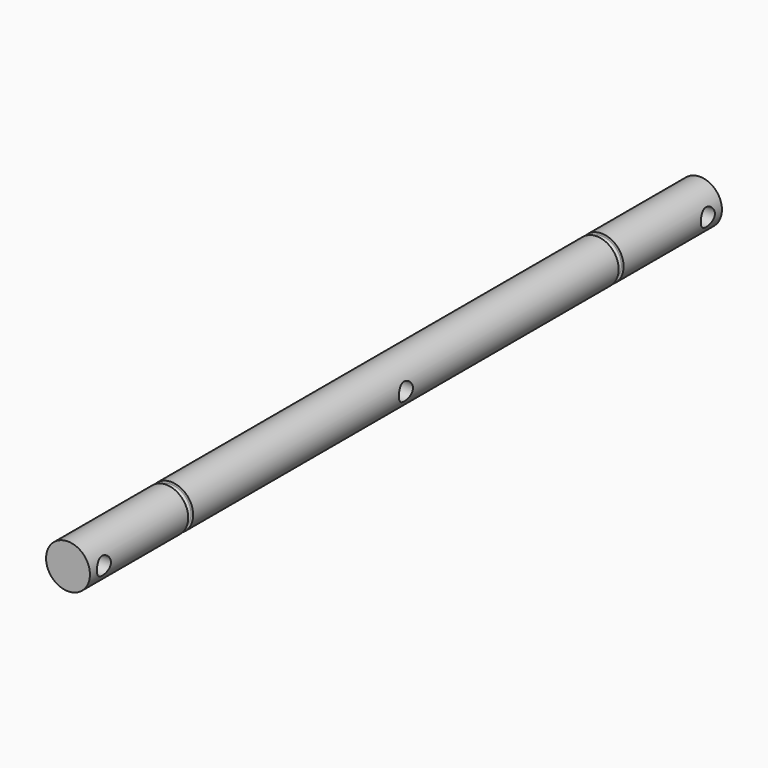
from build123d import *

# Parameters (mm, degrees)
F0_R     = 2.5
F1_DEPTH = 45
F2_W     = 0.7
F2_H     = 0.5
F5_R     = 1
F6_DEPTH = 12.5
F7_R     = 0.25


with BuildPart() as f1:
    # F0 (on Front) → F1 (new body, symmetric)
    with BuildSketch(Plane.XZ):
        Circle(F0_R)
    extrude(amount=F1_DEPTH, both=True)

    # F2 (on Right) → F4 (revolve, cut)
    with BuildSketch(Plane.YZ):
        with Locations((-30.65, 2.25)):
            Rectangle(F2_W, F2_H)
        with Locations((30.65, 2.25)):
            Rectangle(F2_W, F2_H)
    revolve(axis=Axis((0, -3.298404, 0), (0, 1, 0)), mode=Mode.SUBTRACT)

    # F5 (on Right) → F6 (cut, symmetric)
    with BuildSketch(Plane.YZ):
        with Locations((-43, 0)):
            Circle(F5_R)
        with Locations((43, 0)):
            Circle(F5_R)
        Circle(F5_R)
    extrude(amount=F6_DEPTH, both=True, mode=Mode.SUBTRACT)

    # F7
    f7_edges = [f1.edges().sort_by_distance(p)[0] for p in [
        (0, -31, -2),
        (0, -30.3, -2),
        (0, 30.3, -2),
        (0, 31, -2),
    ]]
    fillet(f7_edges, radius=F7_R)


solid = f1.part
